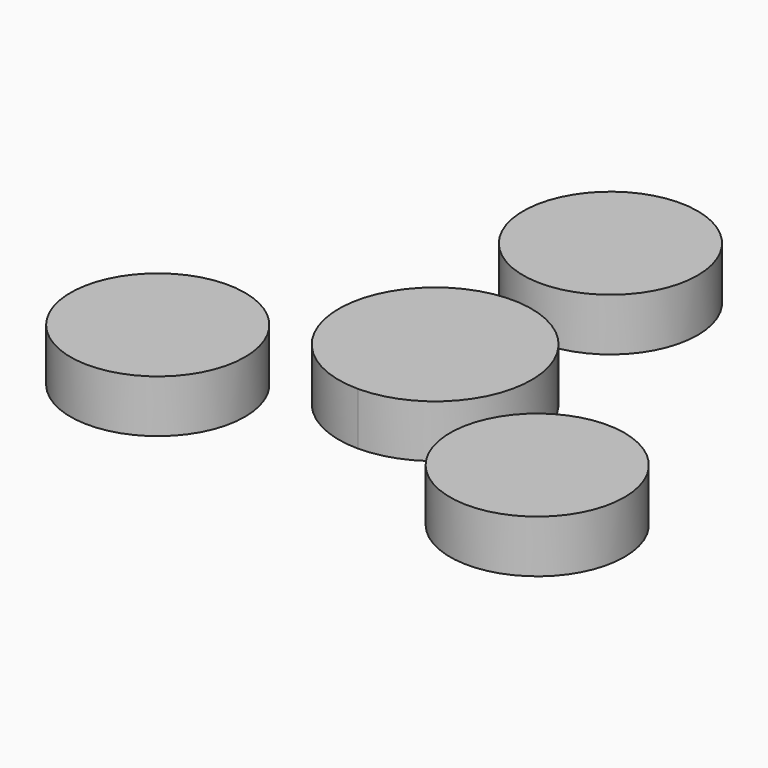
from build123d import *

# Parameters (mm, degrees)
F0_R     = 9.95
F1_DEPTH = 6


with BuildPart() as f1:
    # F0 (on Top) → F1 (new body)
    with BuildSketch(Plane.XY):
        with BuildLine():
            ThreePointArc((0, -11), (9.526279, -5.5), (9.526279, 5.5))
            ThreePointArc((9.526279, 5.5), (0, 11), (-9.526279, 5.5))
            ThreePointArc((-9.526279, 5.5), (-9.526279, -5.5), (0, -11))
        make_face()
        with Locations((0, 25)):
            Circle(F0_R)
        with Locations((-21.650635, -12.5)):
            Circle(F0_R)
        with Locations((21.650635, -12.5)):
            Circle(F0_R)
    extrude(amount=F1_DEPTH)


solid = f1.part
